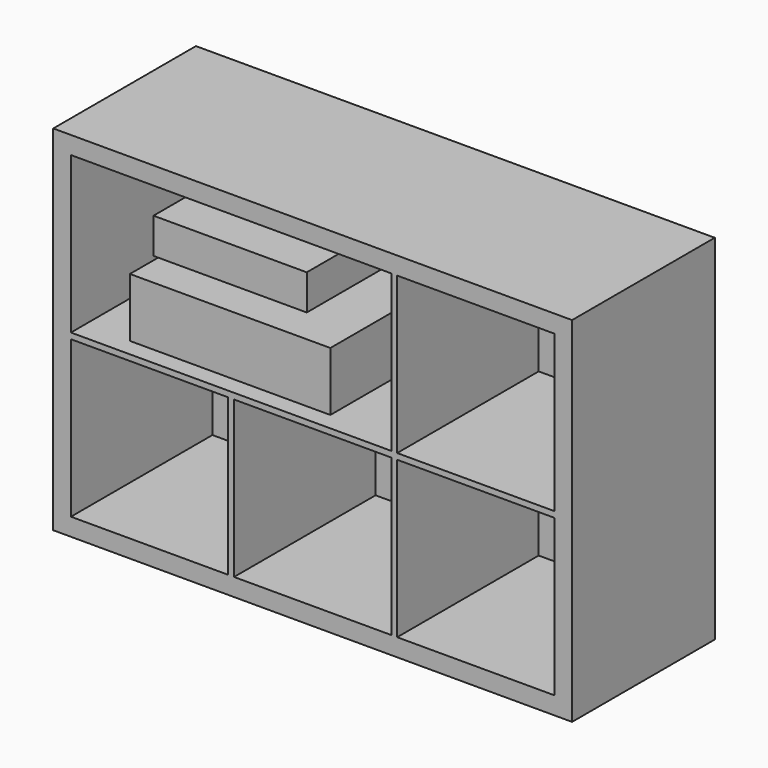
from build123d import *

# Parameters (mm, degrees)
F0_W     = 1117.6
F0_H     = 762
F0_W_2   = 338.666667
F0_H_2   = 336.55
F0_W_3   = 338.666666
F1_DEPTH = 381
F2_W     = 1117.6
F2_H     = 762
F3_DEPTH = 3.175
F4_W     = 330.2
F4_H     = 76.2
F4_W_2   = 431.8
F4_H_2   = 127
F5_DEPTH = 381


with BuildPart() as f1:
    # F0 (on Front) → F1 (new body)
    with BuildSketch(Plane.XZ):
        with Locations((558.8, -381)):
            Rectangle(F0_W, F0_H)
        with Locations((207.433334, -555.625)):
            Rectangle(F0_W_2, F0_H_2, mode=Mode.SUBTRACT)
        with Locations((558.8, -555.625)):
            Rectangle(F0_W_3, F0_H_2, mode=Mode.SUBTRACT)
        with Locations((910.166667, -555.625)):
            Rectangle(F0_W_2, F0_H_2, mode=Mode.SUBTRACT)
        Polygon((38.1, -374.65), (38.1, -38.1), (376.766667, -38.1), (389.466667, -38.1), (728.133333, -38.1), (728.133333, -374.65), (389.466667, -374.65), (376.766667, -374.65), align=None, mode=Mode.SUBTRACT)
        with Locations((910.166667, -206.375)):
            Rectangle(F0_W_2, F0_H_2, mode=Mode.SUBTRACT)
    extrude(amount=-F1_DEPTH)

    # F2 (on face) → F3 (join)
    with BuildSketch(Plane(origin=(0, 381, 0), x_dir=(-1, 0, 0), z_dir=(0, 1, 0))):
        with Locations((-558.8, -381)):
            Rectangle(F2_W, F2_H)
    extrude(amount=F3_DEPTH)

    # F4 (on Front) → F5 (join)
    with BuildSketch(Plane.XZ):
        with Locations((381, -133.35)):
            Rectangle(F4_W, F4_H)
        with Locations((381, -285.75)):
            Rectangle(F4_W_2, F4_H_2)
    extrude(amount=-F5_DEPTH)


solid = f1.part
